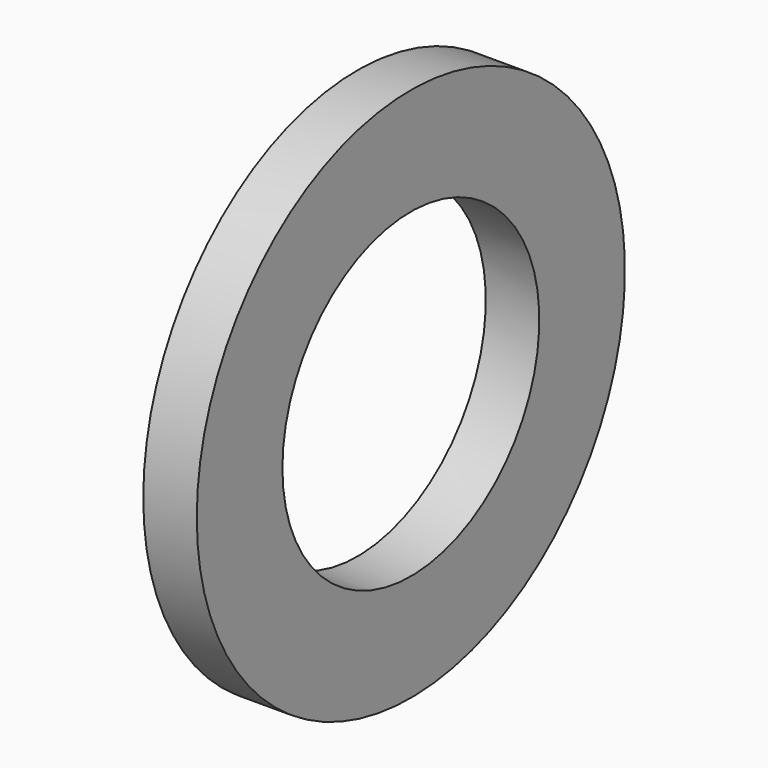
from build123d import *

# Parameters (mm, degrees)
SKETCH038_R   = 10
SKETCH038_R_2 = 6
PAD014_DEPTH  = 2


with BuildPart() as bearing_inner_back_left:
    # Sketch038 → Pad014 (new body)
    with BuildSketch(Plane.YZ):
        Circle(SKETCH038_R)
        Circle(SKETCH038_R_2, mode=Mode.SUBTRACT)
    extrude(amount=PAD014_DEPTH)


with BuildPart() as bearing_inner_back_left_1:
    # Body010 placement: moved
    add(bearing_inner_back_left.part.moved(Location((10, 51, -44))))


with BuildPart() as bearing_inner_front_left:
    # Part__Mirroring010: instance of bearing-inner-back-left
    add(bearing_inner_back_left_1.part.mirror(Plane(origin=(11, -4e-06, -44.000004), x_dir=(1, 0, 0), z_dir=(0, 1, 0))))


with BuildPart() as bearing_inner_front_right:
    # Part__Mirroring011: instance of bearing-inner-front-left
    add(bearing_inner_front_left.part.mirror(Plane(origin=(0, 0, 0), x_dir=(0, -1, 0), z_dir=(1, 0, 0))))


solid = bearing_inner_front_right.part
